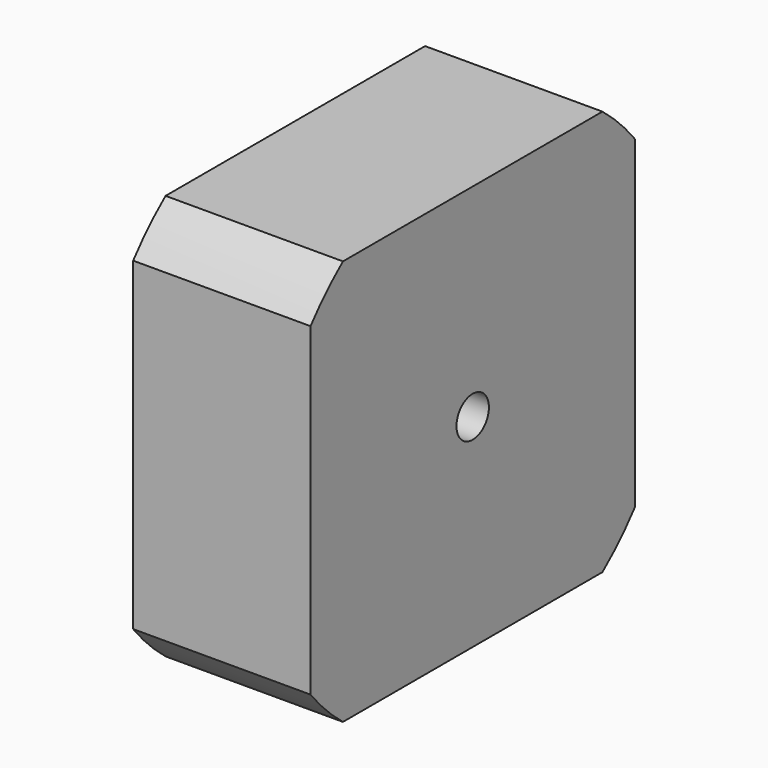
from build123d import *

# Parameters (mm, degrees)
F0_W     = 80
F0_H     = 80
F1_DEPTH = 35
F3_DEPTH = 35.001
F4_R     = 4
F5_DEPTH = 35.001


with BuildPart() as f1:
    # F0 (on Right) → F1 (new body)
    with BuildSketch(Plane.YZ):
        Rectangle(F0_W, F0_H)
    extrude(amount=F1_DEPTH)

    # F2 (on face) → F3 (cut, through all)
    with BuildSketch(Plane.YZ.offset(35)):
        with BuildLine():
            ThreePointArc((-40, 32), (-36.221541, 36.221541), (-32, 40))
            Line((-32, 40), (-40, 40))
            Line((-40, 40), (-40, 32))
        make_face()
        with BuildLine():
            ThreePointArc((-32, -40), (-36.221541, -36.221541), (-40, -32))
            Line((-40, -32), (-40, -40))
            Line((-40, -40), (-32, -40))
        make_face()
        with BuildLine():
            ThreePointArc((40, -32), (36.221541, -36.221541), (32, -40))
            Line((32, -40), (40, -40))
            Line((40, -40), (40, -32))
        make_face()
        with BuildLine():
            ThreePointArc((32, 40), (36.221541, 36.221541), (40, 32))
            Line((40, 32), (40, 40))
            Line((40, 40), (32, 40))
        make_face()
    extrude(amount=-F3_DEPTH, mode=Mode.SUBTRACT)

    # F4 (on face) → F5 (cut, through all)
    with BuildSketch(Plane(origin=(0, 0, 0), x_dir=(0, -1, 0), z_dir=(-1, 0, 0))):
        Circle(F4_R)
    extrude(amount=-F5_DEPTH, mode=Mode.SUBTRACT)


solid = f1.part
